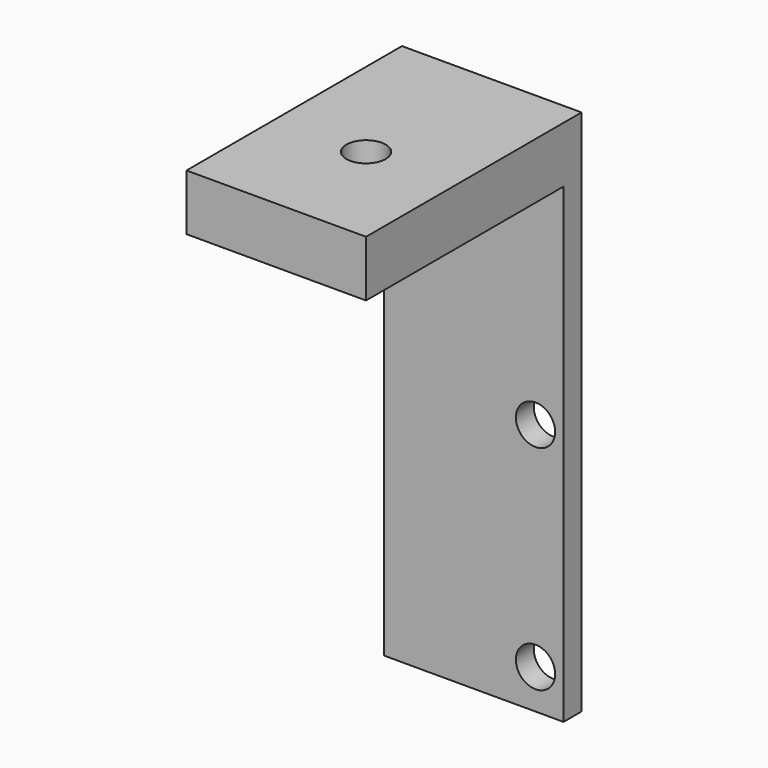
from build123d import *

# Parameters (mm, degrees)
F0_W     = 16
F0_H     = 42
F0_R     = 1.75
F1_DEPTH = 2
F2_W     = 16
F2_H     = 5
F3_DEPTH = 24
F4_R     = 1.75
F5_DEPTH = 5


with BuildPart() as f1:
    # F0 (on Front) → F1 (new body)
    with BuildSketch(Plane.XZ):
        with Locations((8, 21)):
            Rectangle(F0_W, F0_H)
        with Locations((13.5, 3.5)):
            Circle(F0_R, mode=Mode.SUBTRACT)
        with Locations((13.5, 22.5)):
            Circle(F0_R, mode=Mode.SUBTRACT)
    extrude(amount=F1_DEPTH)

    # F2 (on face) → F3 (join)
    with BuildSketch(Plane(origin=(0, 0, 0), x_dir=(-1, 0, 0), z_dir=(0, 1, 0))):
        with Locations((-8, 44.5)):
            Rectangle(F2_W, F2_H)
    extrude(amount=-F3_DEPTH)

    # F4 (on face) → F5 (cut, through all)
    with BuildSketch(Plane(origin=(0, 0, 42), x_dir=(1, 0, 0), z_dir=(0, 0, -1))):
        with Locations((8, 14)):
            Circle(F4_R)
    extrude(amount=-F5_DEPTH, mode=Mode.SUBTRACT)


solid = f1.part
